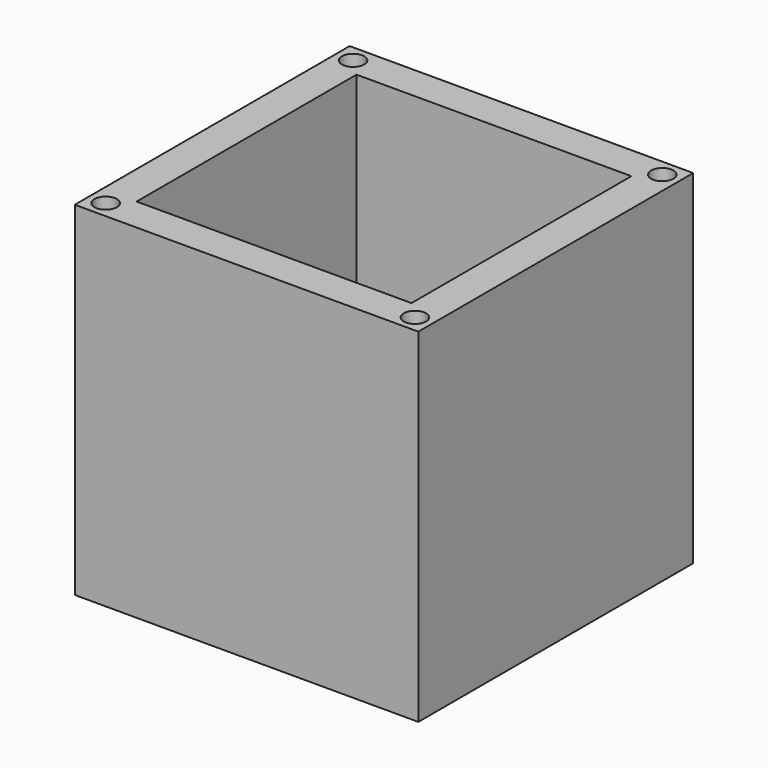
from build123d import *

# Parameters (mm, degrees)
F1_DEPTH = 12.7
F2_T     = -2.54
F3_R     = 0.8255
F4_DEPTH = 1.27


with BuildPart() as f1:
    # F0 (on Front) → F1 (new body, symmetric)
    with BuildSketch(Plane.XZ):
        Polygon((-12.7, -12.7), (0, -12.7), (12.7, -12.7), (12.7, 0), (12.7, 12.7), (0, 12.7), (-12.7, 12.7), (-12.7, 0), align=None)
    extrude(amount=F1_DEPTH, both=True)

    # F2
    f2_openings = [f1.faces().sort_by_distance(p)[0] for p in [
        (0, 0, 12.7),
    ]]
    offset(amount=F2_T, openings=f2_openings)

    # F3 (on face) → F4 (cut)
    with BuildSketch(Plane.XY.offset(12.7)):
        with Locations((-11.43, 11.43)):
            Circle(F3_R)
        with Locations((11.43, 11.43)):
            Circle(F3_R)
        with Locations((11.43, -11.43)):
            Circle(F3_R)
        with Locations((-11.43, -11.43)):
            Circle(F3_R)
    extrude(amount=-F4_DEPTH, mode=Mode.SUBTRACT)


solid = f1.part
